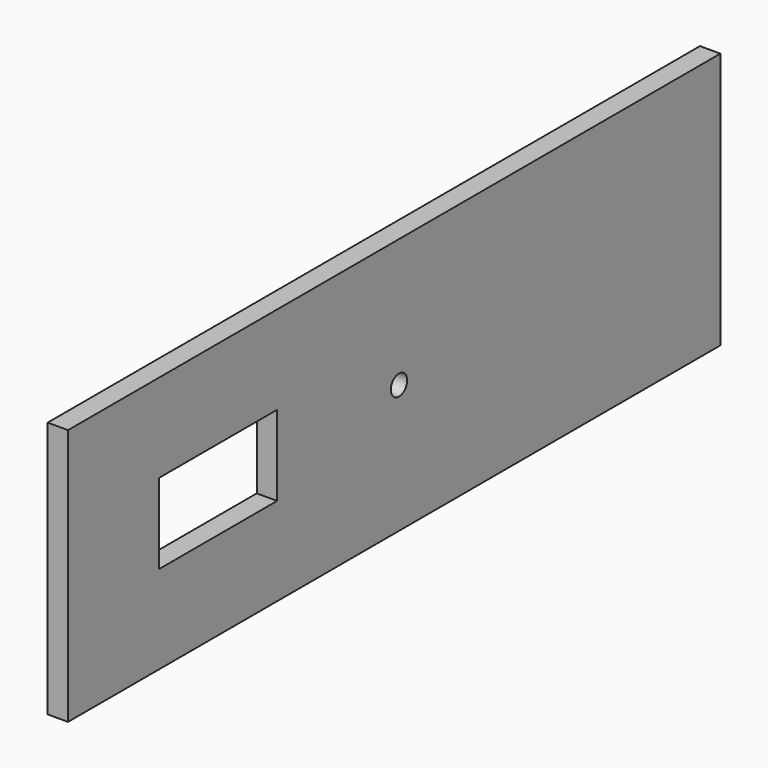
from build123d import *

# Parameters (mm, degrees)
F1_DEPTH = 3.175


with BuildPart() as f1:
    # F0 (on Right) → F1 (new body)
    with BuildSketch(Plane.YZ):
        with BuildLine():
            Line((0, 20.0025), (0, 0))
            Line((0, 0), (127, 0))
            Line((127, 0), (127, 20.0025))
            Line((127, 20.0025), (122, 20.0025))
            Line((122, 20.0025), (66.0261, 20.0025))
            ThreePointArc((66.0261, 20.0025), (64.4386, 18.415), (62.8511, 20.0025))
            Line((62.8511, 20.0025), (59.2062, 20.0025))
            Line((59.2062, 20.0025), (44.4386, 20.0025))
            Line((44.4386, 20.0025), (40.7124, 20.0025))
            Line((40.7124, 20.0025), (40.7124, 13.7541))
            Line((40.7124, 13.7541), (34.4386, 13.7541))
            Line((34.4386, 13.7541), (17.7, 13.7541))
            Line((17.7, 13.7541), (17.7, 20.0025))
            Line((17.7, 20.0025), (5, 20.0025))
            Line((5, 20.0025), (0, 20.0025))
        make_face()
        with BuildLine():
            Line((0, 40.005), (0, 20.0025))
            Line((0, 20.0025), (5, 20.0025))
            Line((5, 20.0025), (17.7, 20.0025))
            Line((17.7, 20.0025), (17.7, 26.2509))
            Line((17.7, 26.2509), (40.7124, 26.2509))
            Line((40.7124, 26.2509), (40.7124, 20.0025))
            Line((40.7124, 20.0025), (44.4386, 20.0025))
            Line((44.4386, 20.0025), (59.2062, 20.0025))
            Line((59.2062, 20.0025), (62.8511, 20.0025))
            ThreePointArc((62.8511, 20.0025), (64.4386, 21.59), (66.0261, 20.0025))
            Line((66.0261, 20.0025), (122, 20.0025))
            Line((122, 20.0025), (127, 20.0025))
            Line((127, 20.0025), (127, 40.005))
            Line((127, 40.005), (0, 40.005))
        make_face()
    extrude(amount=F1_DEPTH)


solid = f1.part
